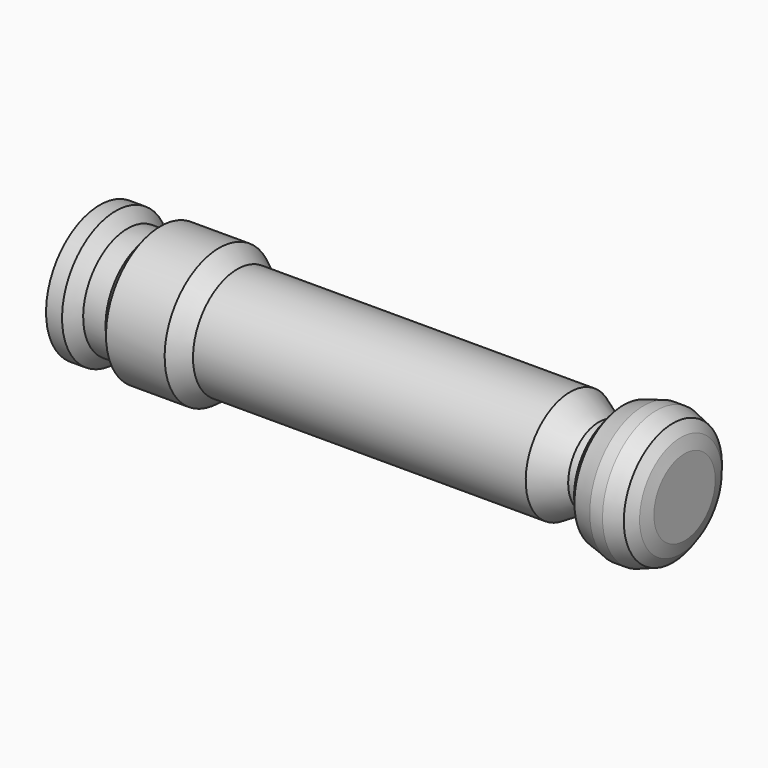
from build123d import *


with BuildPart() as f1:
    # F0 (on Front) → F1 (revolve)
    with BuildSketch(Plane.XZ):
        Polygon((77.188693, 0), (-56.854621, 0), (-56.854621, -15.386273), (-53.187992, -15.386273), (-50.499126, -12.697409), (-45.365844, -12.697409), (-42.92142, -15.630715), (-29.477101, -15.630715), (-25.321586, -12.697409), (0, -12.697409), (50.944373, -12.697409), (57.54431, -8.786334), (59.507485, -8.786334), (61.288327, -11.769459), (63.196369, -14.059111), (67.775682, -15.386273), (70.701346, -15.386273), (74.517429, -14.059111), (76.298274, -11.769459), (77.188693, -8.786334), (77.188693, -5.282109), align=None)
    revolve(axis=Axis((10.167036, 0, 0), (1, 0, 0)))


solid = f1.part
